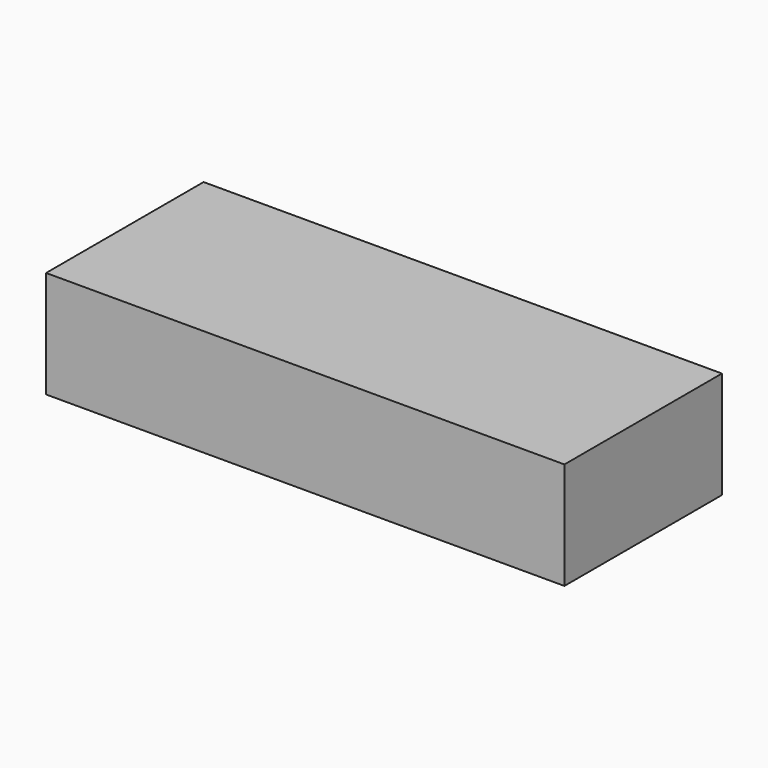
from build123d import *

# Parameters (mm, degrees)
F1_W     = 123.053412
F1_H     = 46.739396
F2_DEPTH = 25.4


with BuildPart() as f2:
    # F1 (on face) → F2 (new body)
    with BuildSketch(Plane.XY):
        with Locations((0.059573, 23.369698)):
            Rectangle(F1_W, F1_H)
    extrude(amount=F2_DEPTH)


solid = f2.part
